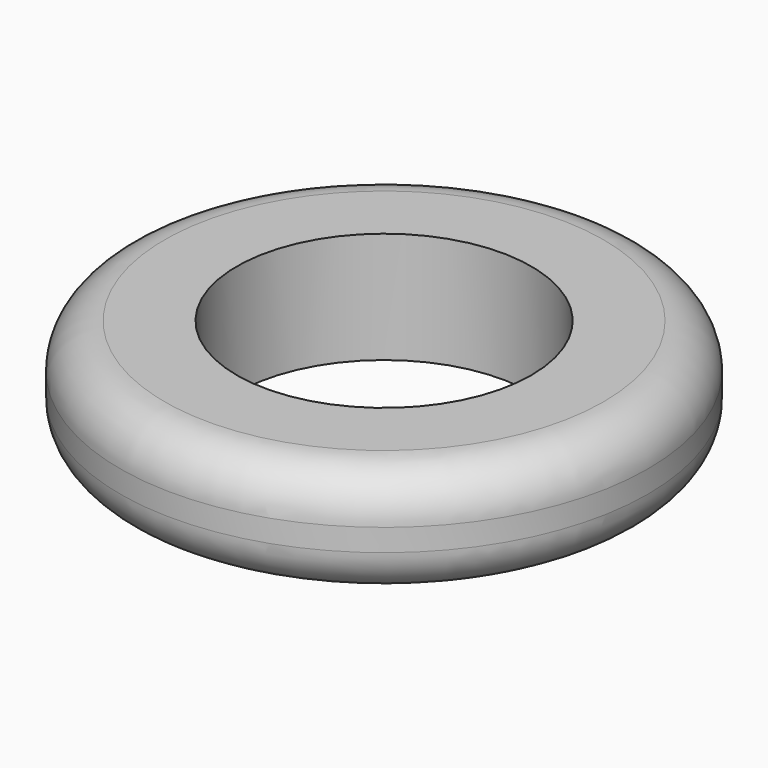
from build123d import *

# Parameters (mm, degrees)
F0_R     = 59.319188
F1_DEPTH = 25
F3_R     = 33.106016
F4_DEPTH = 116.983913
F5_R     = 10


with BuildPart() as f1:
    # F0 (on Top) → F1 (new body)
    with BuildSketch(Plane.XY):
        Circle(F0_R)
        Circle(F0_R)
    extrude(amount=F1_DEPTH)

    # F3 (on offset) → F4 (cut)
    with BuildSketch(Plane.XY.offset(50)):
        Circle(F3_R)
    extrude(amount=-F4_DEPTH, mode=Mode.SUBTRACT)

    # F5
    f5_edges = [f1.edges().sort_by_distance(p)[0] for p in [
        (-59.319188, 0, 0),
        (-59.319188, 0, 25),
    ]]
    fillet(f5_edges, radius=F5_R)


solid = f1.part
